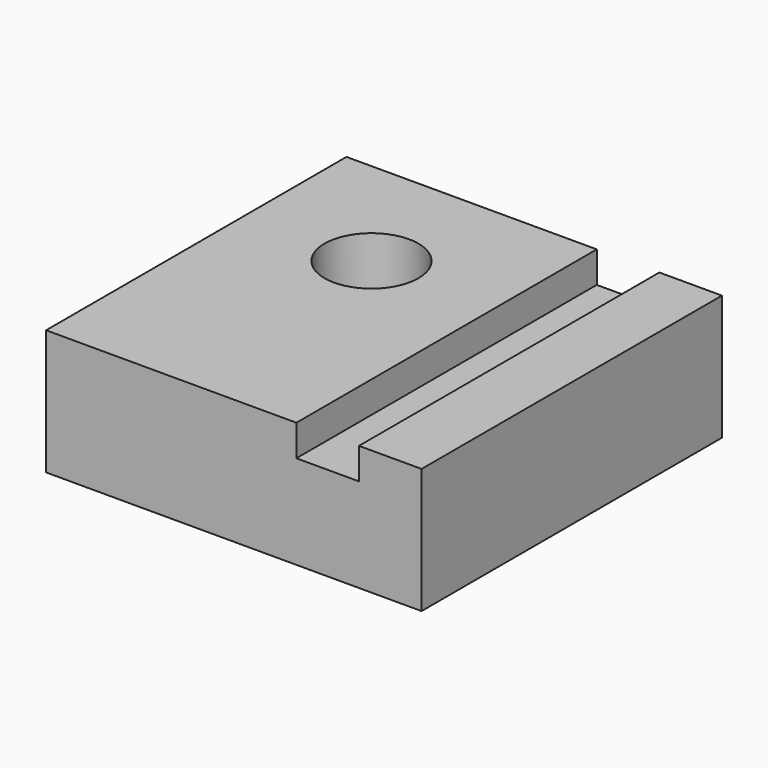
from build123d import *

# Parameters (mm, degrees)
F0_W     = 12.7
F0_H     = 76.2
F0_W_2   = 50.8
F0_R     = 9.525
F1_DEPTH = 25.4
F2_DEPTH = 6.35


with BuildPart() as f1:
    # F0 (on Top) → F1 (new body)
    with BuildSketch(Plane.XY):
        with Locations((31.75, 0)):
            Rectangle(F0_W, F0_H)
        with Locations((-12.7, 0)):
            Rectangle(F0_W_2, F0_H)
        with Locations((-12.7, 12.7)):
            Circle(F0_R, mode=Mode.SUBTRACT)
        with Locations((19.05, 0)):
            Rectangle(F0_W, F0_H)
    extrude(amount=-F1_DEPTH)

    # F0 (on Top) → F2 (cut)
    with BuildSketch(Plane.XY):
        with Locations((19.05, 0)):
            Rectangle(F0_W, F0_H)
    extrude(amount=-F2_DEPTH, mode=Mode.SUBTRACT)


solid = f1.part
